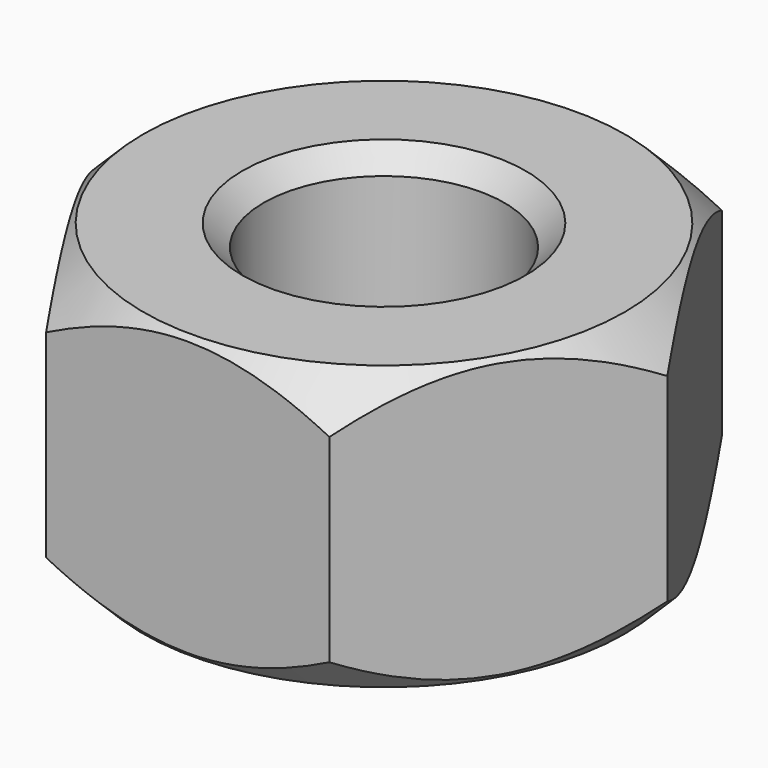
from build123d import *

# Parameters (mm, degrees)
F2_SIZE  = 1.5
F4_DEPTH = 10.001


with BuildPart() as f1:
    # F0 (on Front) → F1 (revolve)
    with BuildSketch(Plane.XZ):
        Polygon((-5, 5), (-10, 5), (-10, -5), (-5, -5), (-4.25, -4.25), (-4.25, 4.25), align=None)
    revolve(axis=Axis((0, 0, 0), (0, 0, -1)))

    # F2
    f2_edges = [f1.edges().sort_by_distance(p)[0] for p in [
        (10, 0, 5),
        (10, 0, -5),
    ]]
    chamfer(f2_edges, length=F2_SIZE)

    # F3 (on face) → F4 (cut, through all)
    with BuildSketch(Plane.XY.offset(5)):
        with BuildLine():
            ThreePointArc((5, 8.660254), (0, 10), (-5, 8.660254))
            Line((-5, 8.660254), (5, 8.660254))
        make_face()
        with BuildLine():
            Line((-10, 0), (-5, 8.660254))
            ThreePointArc((-5, 8.660254), (-8.660254, 5), (-10, 0))
        make_face()
        with BuildLine():
            Line((-5, -8.660254), (-10, 0))
            ThreePointArc((-10, 0), (-8.660254, -5), (-5, -8.660254))
        make_face()
        with BuildLine():
            Line((5, -8.660254), (-5, -8.660254))
            ThreePointArc((-5, -8.660254), (0, -10), (5, -8.660254))
        make_face()
        with BuildLine():
            ThreePointArc((5, -8.660254), (8.660254, -5), (10, 0))
            Line((10, 0), (5, -8.660254))
        make_face()
        with BuildLine():
            ThreePointArc((10, 0), (8.660254, 5), (5, 8.660254))
            Line((5, 8.660254), (10, 0))
        make_face()
    extrude(amount=-F4_DEPTH, mode=Mode.SUBTRACT)


solid = f1.part
